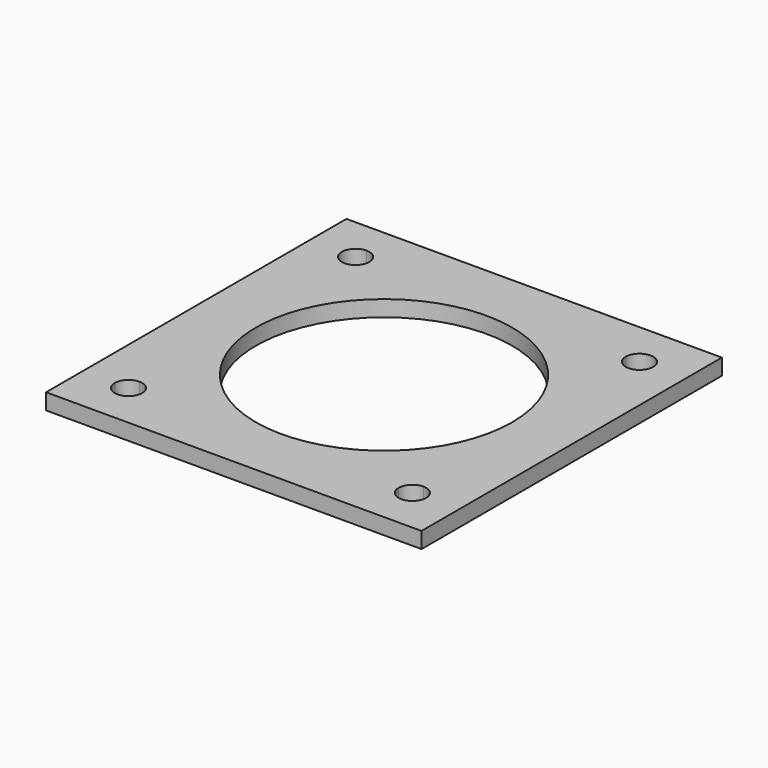
from build123d import *

# Parameters (mm, degrees)
F0_R     = 14
F1_DEPTH = 1.75


with BuildPart() as f1:
    # F0 (on Top) → F1 (new body)
    with BuildSketch(Plane.XY):
        with BuildLine():
            Line((-14, -15.5), (14, -15.5))
            ThreePointArc((14, -15.5), (14.43934, -14.43934), (15.5, -14))
            Line((15.5, -14), (15.5, 14))
            ThreePointArc((15.5, 14), (14.43934, 14.43934), (14, 15.5))
            Line((14, 15.5), (-14, 15.5))
            ThreePointArc((-14, 15.5), (-14.43934, 14.43934), (-15.5, 14))
            Line((-15.5, 14), (-15.5, -14))
            ThreePointArc((-15.5, -14), (-14.43934, -14.43934), (-14, -15.5))
        make_face()
        Circle(F0_R, mode=Mode.SUBTRACT)
        with BuildLine():
            Line((-20.5, 20.5), (-20.5, -15.5))
            Line((-20.5, -15.5), (-17, -15.5))
            ThreePointArc((-17, -15.5), (-16.56066, -14.43934), (-15.5, -14))
            Line((-15.5, -14), (-15.5, 14))
            ThreePointArc((-15.5, 14), (-17, 15.5), (-15.5, 17))
            Line((-15.5, 17), (-15.5, 20.5))
            Line((-15.5, 20.5), (-20.5, 20.5))
        make_face()
        with BuildLine():
            Line((17, 15.5), (20.5, 15.5))
            Line((20.5, 15.5), (20.5, 20.5))
            Line((20.5, 20.5), (-15.5, 20.5))
            Line((-15.5, 20.5), (-15.5, 17))
            ThreePointArc((-15.5, 17), (-14.43934, 16.56066), (-14, 15.5))
            Line((-14, 15.5), (14, 15.5))
            ThreePointArc((14, 15.5), (15.5, 17), (17, 15.5))
        make_face()
        with BuildLine():
            Line((15.5, -20.5), (20.5, -20.5))
            Line((20.5, -20.5), (20.5, 15.5))
            Line((20.5, 15.5), (17, 15.5))
            ThreePointArc((17, 15.5), (16.56066, 14.43934), (15.5, 14))
            Line((15.5, 14), (15.5, -14))
            ThreePointArc((15.5, -14), (16.56066, -14.43934), (17, -15.5))
            ThreePointArc((17, -15.5), (16.56066, -16.56066), (15.5, -17))
            Line((15.5, -17), (15.5, -20.5))
        make_face()
        with BuildLine():
            Line((-20.5, -20.5), (15.5, -20.5))
            Line((15.5, -20.5), (15.5, -17))
            ThreePointArc((15.5, -17), (14.43934, -16.56066), (14, -15.5))
            Line((14, -15.5), (-14, -15.5))
            ThreePointArc((-14, -15.5), (-15.5, -17), (-17, -15.5))
            Line((-17, -15.5), (-20.5, -15.5))
            Line((-20.5, -15.5), (-20.5, -20.5))
        make_face()
    extrude(amount=F1_DEPTH)


solid = f1.part
